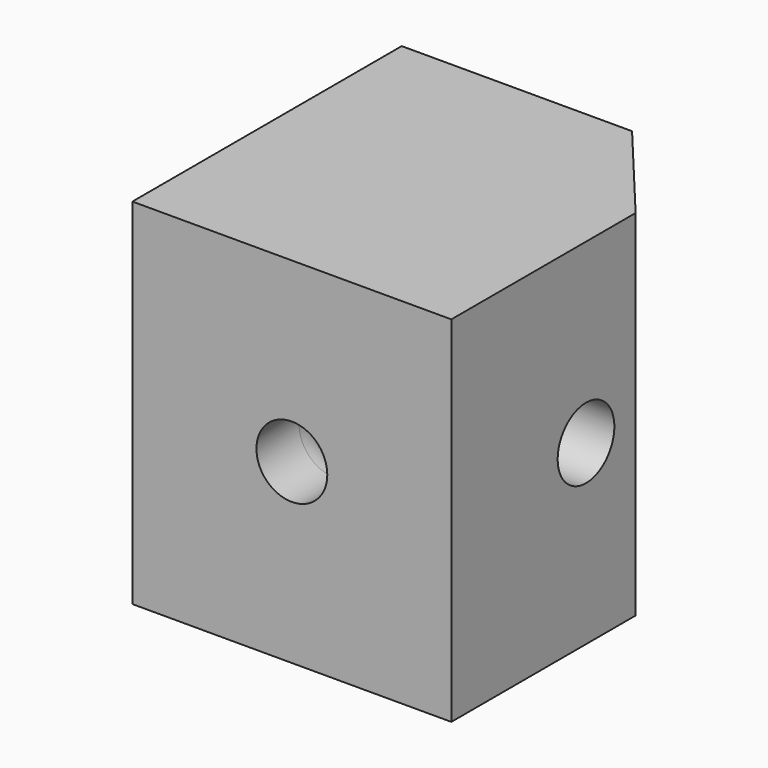
from build123d import *

# Parameters (mm, degrees)
F0_W      = 18
F0_H      = 19
F1_DEPTH  = 20
F3_R      = 6
F4_DEPTH  = 13
F2_R      = 2
F5_DEPTH  = 18
F6_R      = 3
F7_R      = 2
F8_DEPTH  = 25
F10_DEPTH = 25


with BuildPart() as f1:
    # F0 (on Top) → F1 (new body)
    with BuildSketch(Plane.XY):
        Rectangle(F0_W, F0_H)
    extrude(amount=F1_DEPTH)

    # F3 (on face) → F4 (cut)
    with BuildSketch(Plane(origin=(0, 9.5, 0), x_dir=(-1, 0, 0), z_dir=(0, 1, 0))):
        with Locations((0, 10)):
            Circle(F3_R)
    extrude(amount=-F4_DEPTH, mode=Mode.SUBTRACT)

    # F2 (on face) → F5 (cut)
    with BuildSketch(Plane.XZ.offset(9.5)):
        with Locations((0, 10)):
            Circle(F2_R)
    extrude(amount=-F5_DEPTH, mode=Mode.SUBTRACT)

    # F6
    f6_edges = [f1.edges().sort_by_distance(p)[0] for p in [
        (-2, -3.5, 10),
    ]]
    fillet(f6_edges, radius=F6_R)

    # F7 (on face) → F8 (cut)
    with BuildSketch(Plane(origin=(-9, 0, 0), x_dir=(0, -1, 0), z_dir=(-1, 0, 0))):
        with Locations((0, 10)):
            Circle(F7_R)
    extrude(amount=-F8_DEPTH, mode=Mode.SUBTRACT)

    # F9 (on face) → F10 (cut)
    with BuildSketch(Plane.XY.offset(20)):
        Polygon((9, 9.5), (4, 9.5), (9, 3.5), align=None)
    extrude(amount=-F10_DEPTH, mode=Mode.SUBTRACT)


solid = f1.part
